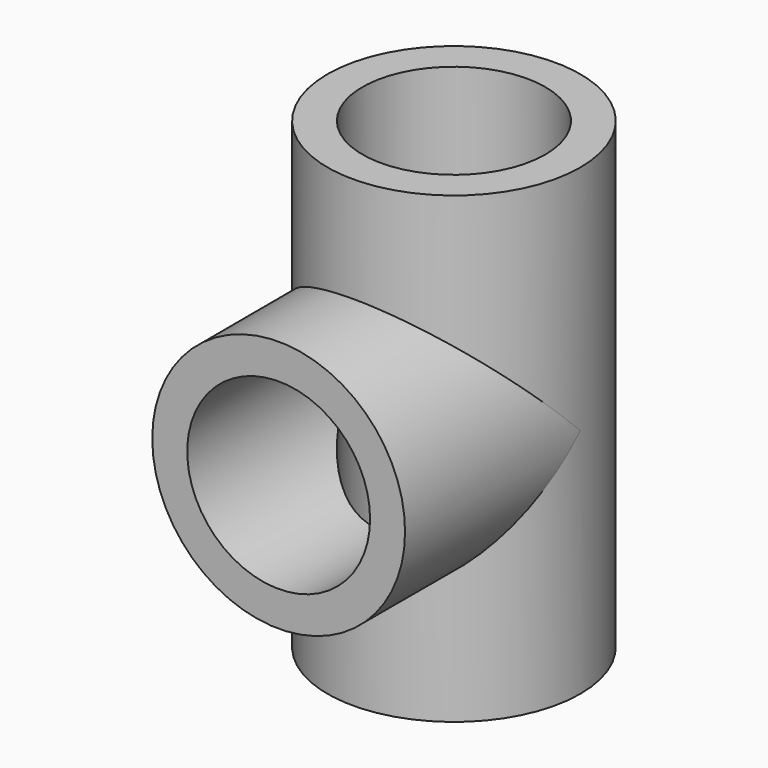
from build123d import *

# Parameters (mm, degrees)
F0_R     = 15
F1_DEPTH = 55
F2_R     = 15
F3_DEPTH = 26
F4_R     = 10.85
F5_DEPTH = 55
F6_R     = 10.85
F7_DEPTH = 26


with BuildPart() as f1:
    # F0 (on Top) → F1 (new body)
    with BuildSketch(Plane.XY):
        Circle(F0_R)
    extrude(amount=F1_DEPTH)

    # F2 (on Front) → F3 (join)
    with BuildSketch(Plane.XZ):
        with Locations((0, 27.5)):
            Circle(F2_R)
    extrude(amount=F3_DEPTH)

    # F4 (on face) → F5 (cut)
    with BuildSketch(Plane.XY.offset(55)):
        Circle(F4_R)
    extrude(amount=-F5_DEPTH, mode=Mode.SUBTRACT)

    # F6 (on face) → F7 (cut)
    with BuildSketch(Plane.XZ.offset(26)):
        with Locations((0, 27.5)):
            Circle(F6_R)
    extrude(amount=-F7_DEPTH, mode=Mode.SUBTRACT)


solid = f1.part
